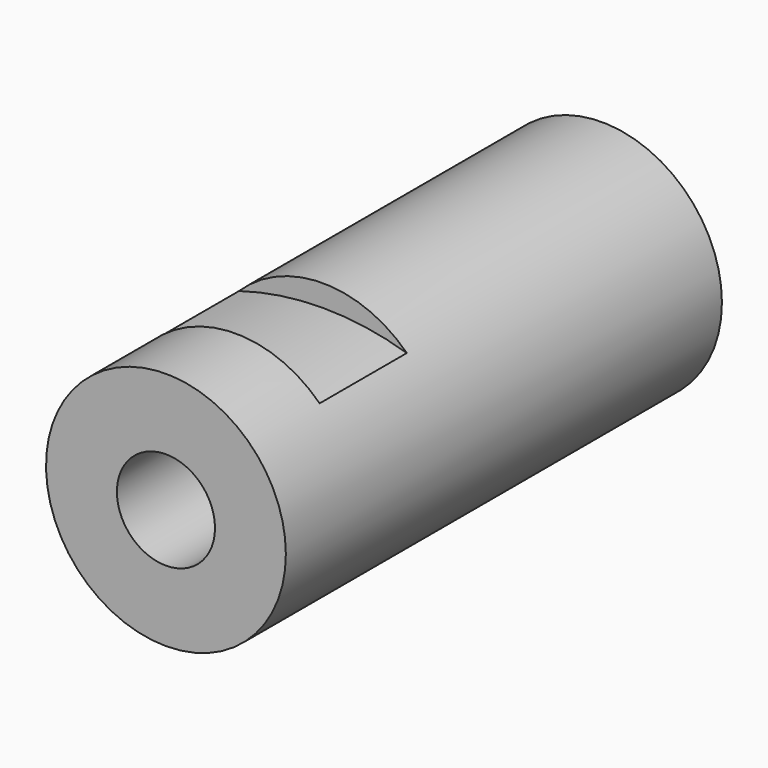
from build123d import *

# Parameters (mm, degrees)
F1_DEPTH = 8
F2_DEPTH = 18
F3_START = -18
F3_DEPTH = 32


with BuildPart() as f1:
    # F0 (on Front) → F1 (new body)
    with BuildSketch(Plane.XZ):
        with BuildLine():
            ThreePointArc((0, -11), (7.7781745931, -7.7781745931), (11, 0))
            ThreePointArc((11, 0), (10.1410640388, 4.2613167168), (7.6983963345, 7.8571428571))
            ThreePointArc((7.6983963345, 7.8571428571), (0, 9), (-7.6983963345, 7.8571428571))
            ThreePointArc((-7.6983963345, 7.8571428571), (-10.1840210975, -4.1576092031), (0, -11))
        make_face()
        with BuildLine():
            ThreePointArc((4.5, 0), (3.1819805153, -3.1819805153), (0, -4.5))
            ThreePointArc((0, -4.5), (-3.1819805153, 3.1819805153), (4.5, 0))
        make_face(mode=Mode.SUBTRACT)
        with BuildLine():
            ThreePointArc((-7.6983963345, 7.8571428571), (0, 9), (7.6983963345, 7.8571428571))
            ThreePointArc((7.6983963345, 7.8571428571), (0, 11), (-7.6983963345, 7.8571428571))
        make_face()
    extrude(amount=-F1_DEPTH)

    # F0 (on Front) → F2 (join)
    with BuildSketch(Plane.XZ):
        with BuildLine():
            ThreePointArc((0, -11), (7.7781745931, -7.7781745931), (11, 0))
            ThreePointArc((11, 0), (10.1410640388, 4.2613167168), (7.6983963345, 7.8571428571))
            ThreePointArc((7.6983963345, 7.8571428571), (0, 9), (-7.6983963345, 7.8571428571))
            ThreePointArc((-7.6983963345, 7.8571428571), (-10.1840210975, -4.1576092031), (0, -11))
        make_face()
        with BuildLine():
            ThreePointArc((4.5, 0), (3.1819805153, -3.1819805153), (0, -4.5))
            ThreePointArc((0, -4.5), (-3.1819805153, 3.1819805153), (4.5, 0))
        make_face(mode=Mode.SUBTRACT)
    extrude(amount=-F2_DEPTH)

    # F0 (on Front) → F3 (join)
    with BuildSketch(Plane.XZ.offset(F3_START)):
        with BuildLine():
            ThreePointArc((0, -11), (7.7781745931, -7.7781745931), (11, 0))
            ThreePointArc((11, 0), (10.1410640388, 4.2613167168), (7.6983963345, 7.8571428571))
            ThreePointArc((7.6983963345, 7.8571428571), (0, 9), (-7.6983963345, 7.8571428571))
            ThreePointArc((-7.6983963345, 7.8571428571), (-10.1840210975, -4.1576092031), (0, -11))
        make_face()
        with BuildLine():
            ThreePointArc((4.5, 0), (3.1819805153, -3.1819805153), (0, -4.5))
            ThreePointArc((0, -4.5), (-3.1819805153, 3.1819805153), (4.5, 0))
        make_face(mode=Mode.SUBTRACT)
        with BuildLine():
            ThreePointArc((-7.6983963345, 7.8571428571), (0, 9), (7.6983963345, 7.8571428571))
            ThreePointArc((7.6983963345, 7.8571428571), (0, 11), (-7.6983963345, 7.8571428571))
        make_face()
    extrude(amount=-F3_DEPTH)


solid = f1.part
